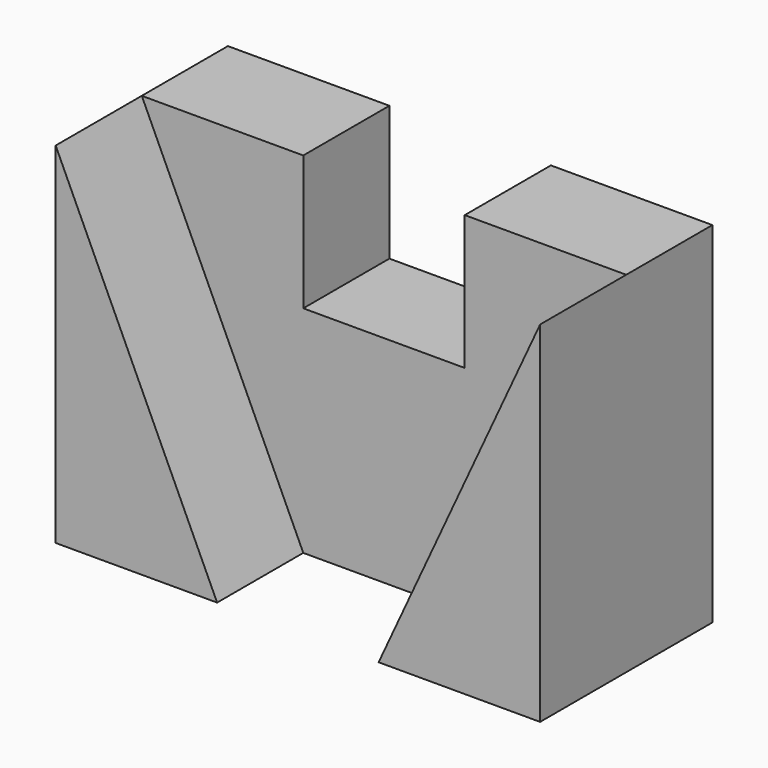
from build123d import *

# Parameters (mm, degrees)
F1_DEPTH = 508
F3_DEPTH = 508


with BuildPart() as f1:
    # F0 (on Front) → F1 (new body)
    with BuildSketch(Plane.XZ):
        Polygon((381, -825.5), (1143, -825.5), (1143, 825.5), (381, 825.5), (381, 190.5), (-381, 190.5), (-381, 825.5), (-1143, 825.5), (-1143, -825.5), (-381, -825.5), align=None)
    extrude(amount=F1_DEPTH)

    # F2 (on face) → F3 (join)
    with BuildSketch(Plane.XZ.offset(508)):
        Polygon((-381, -825.5), (-1143, 825.5), (-1143, -825.5), align=None)
        Polygon((1143, -825.5), (1143, 825.5), (381, -825.5), align=None)
    extrude(amount=F3_DEPTH)


solid = f1.part
